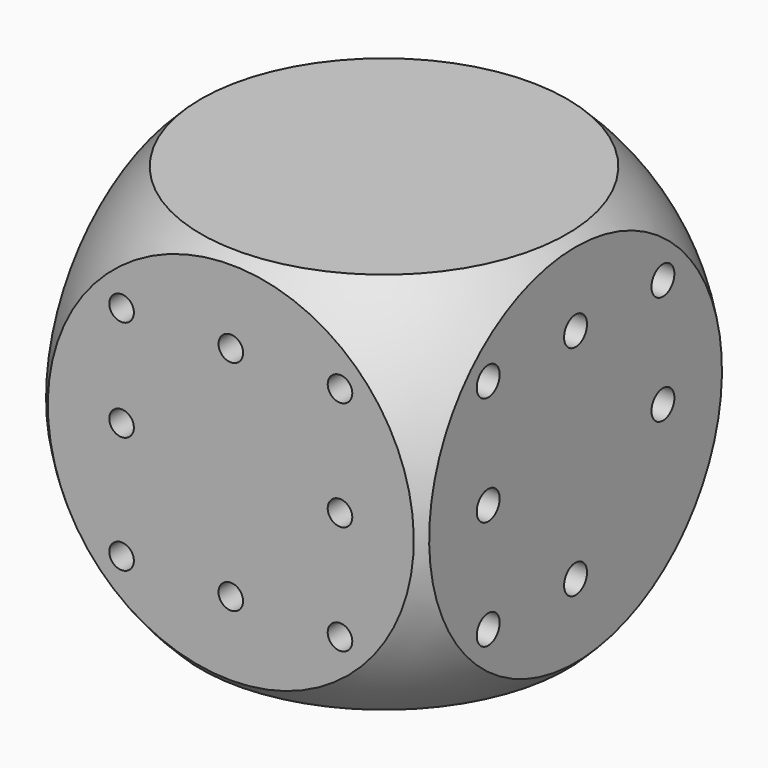
from build123d import *

# Parameters (mm, degrees)
F0_W      = 20
F0_H      = 20
F1_DEPTH  = 10
F5_R      = 0.748055
F6_DEPTH  = 2
F7_R      = 0.641611
F8_DEPTH  = 2
F9_R      = 0.67615
F10_DEPTH = 2


with BuildPart() as f1:
    # F0 (on Front) → F1 (new body, symmetric)
    with BuildSketch(Plane.XZ):
        Rectangle(F0_W, F0_H)
    extrude(amount=F1_DEPTH, both=True)

    # F2 (on Front) → F3 (revolve, intersect)
    with BuildSketch(Plane.XZ):
        with BuildLine():
            Line((0, -13.830679), (0, 13.830679))
            ThreePointArc((0, 13.830679), (-13.830679, 0), (0, -13.830679))
        make_face()
    revolve(axis=Axis((0, 0, 1.024824), (0, 0, 1)), mode=Mode.INTERSECT)

    # F5 (on face) → F6 (cut)
    with BuildSketch(Plane.YZ.offset(10)):
        with Locations((0, -5.701799)):
            Circle(F5_R)
        with Locations((-5.701799, -5.701799)):
            Circle(F5_R)
        with Locations((-5.701799, 0)):
            Circle(F5_R)
        with Locations((-5.701799, 5.701799)):
            Circle(F5_R)
        with Locations((0, 5.701799)):
            Circle(F5_R)
        with Locations((5.701799, 5.701799)):
            Circle(F5_R)
        with Locations((5.701799, 0)):
            Circle(F5_R)
    extrude(amount=-F6_DEPTH, mode=Mode.SUBTRACT)

    # F7 (on face) → F8 (cut)
    with BuildSketch(Plane.XZ.offset(10)):
        with Locations((-5.701799, 5.701799)):
            Circle(F7_R)
        with Locations((-5.701799, 0.41338)):
            Circle(F7_R)
        with Locations((-5.701799, -5.701799)):
            Circle(F7_R)
        with Locations((0, -5.701799)):
            Circle(F7_R)
        with Locations((5.701799, -5.701799)):
            Circle(F7_R)
        with Locations((5.701799, 0)):
            Circle(F7_R)
        with Locations((5.701799, 5.701799)):
            Circle(F7_R)
        with Locations((0, 5.701799)):
            Circle(F7_R)
    extrude(amount=-F8_DEPTH, mode=Mode.SUBTRACT)

    # F9 (on face) → F10 (cut)
    with BuildSketch(Plane(origin=(-10, 0, 0), x_dir=(0, -1, 0), z_dir=(-1, 0, 0))):
        with Locations((-0.299345, 5.701799)):
            Circle(F9_R)
        with Locations((-5.701799, 5.701799)):
            Circle(F9_R)
        with Locations((-5.701799, 0)):
            Circle(F9_R)
        with Locations((-5.701799, -5.701799)):
            Circle(F9_R)
        with Locations((0, -5.701799)):
            Circle(F9_R)
        with Locations((5.701799, -5.701799)):
            Circle(F9_R)
        with Locations((5.701799, 0)):
            Circle(F9_R)
        with Locations((5.701799, 5.701799)):
            Circle(F9_R)
    extrude(amount=-F10_DEPTH, mode=Mode.SUBTRACT)


solid = f1.part
